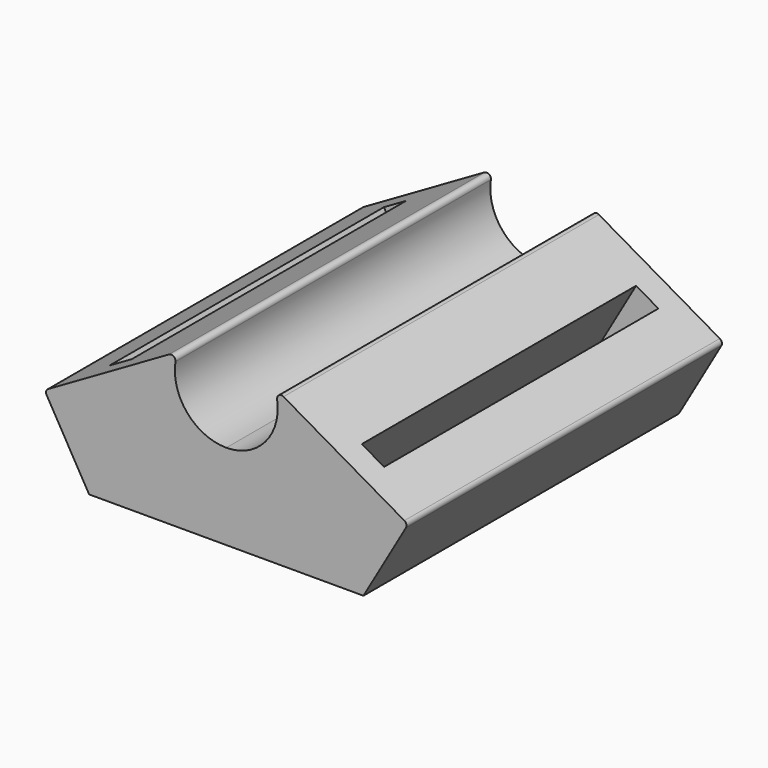
from build123d import *

# Parameters (mm, degrees)
F2_DEPTH = 11.5
F4_W     = 1.5
F4_H     = 20
F5_DEPTH = 25
F6_R     = 0.25


with BuildPart() as f2:
    # F1 (on Front) → F2 (new body, symmetric)
    with BuildSketch(Plane.XZ):
        with BuildLine():
            Line((-10.6042210982, 4.5106432563), (-8, 0))
            Line((-8, 0), (0, 0))
            Line((0, 0), (0, 5))
            ThreePointArc((0, 5), (-2.4494897428, 6.2679491924), (-2.8284271247, 9))
            Line((-2.8284271247, 9), (-10.6042210982, 4.5106432563))
        make_face()
    extrude(amount=F2_DEPTH, both=True)

    # F4 (on offset) → F5 (cut)
    with BuildSketch(Plane(origin=(-4.6042210982, 0, 7.9747448714), x_dir=(0.8660254038, 0, 0.5), z_dir=(-0.5, 0, 0.8660254038))):
        with Locations((-3.1782032303, 0)):
            Rectangle(F4_W, F4_H)
    extrude(amount=-F5_DEPTH, mode=Mode.SUBTRACT)

    # F6
    f6_edges = [f2.edges().sort_by_distance(p)[0] for p in [
        (-10.604221, 0, 4.510643),
        (-2.828427, 0, 9),
    ]]
    fillet(f6_edges, radius=F6_R)

    # F7: F2 across plane


with BuildPart() as f2_1:
    add(f2.part)
    add(f2.part.mirror(Plane.YZ))


solid = f2_1.part
